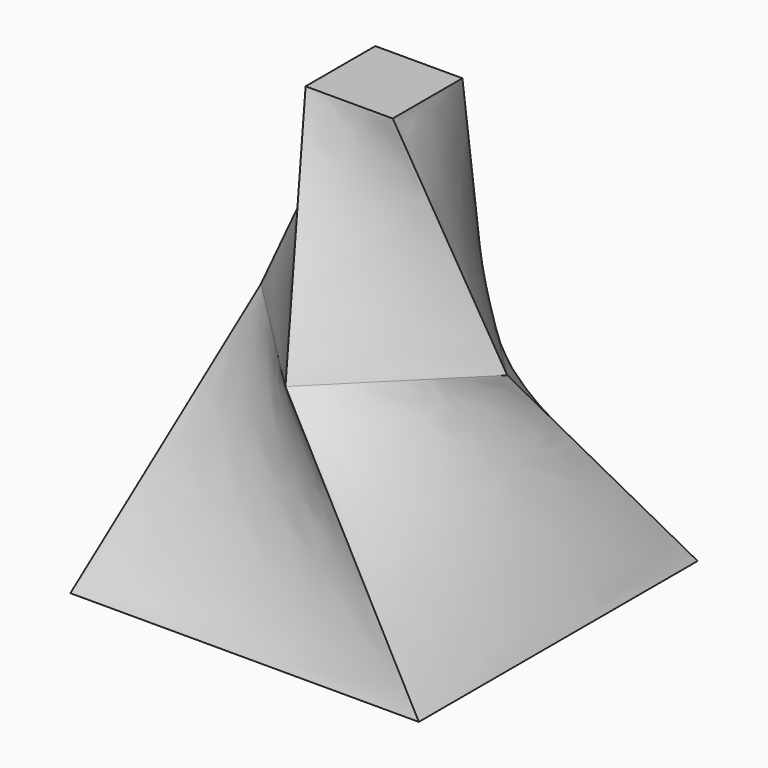
from build123d import *

# Parameters (mm, degrees)
F0_W = 40
F0_H = 40
F5_W = 10
F5_H = 10


with BuildPart() as f3:
    # F0 (on Top) → F3 section 0
    with BuildSketch(Plane.XY):
        Rectangle(F0_W, F0_H)
    # F2 (on offset) → F3 section 1
    with BuildSketch(Plane.XY.offset(25)):
        Polygon((0, 14.1421356237), (-14.1421356237, 0), (0, -14.1421356237), (14.1421356237, 0), align=None)
    loft()

    # F3_face (on face) → F6 section 0
    with BuildSketch(Plane.XY.offset(25)):
        Polygon((14.1421356237, 0), (0, 14.1421356237), (-14.1421356237, 0), (0, -14.1421356237), align=None)
    # F5 (on offset) → F6 section 1
    with BuildSketch(Plane.XY.offset(50)):
        Rectangle(F5_W, F5_H)
    loft()


solid = f3.part
